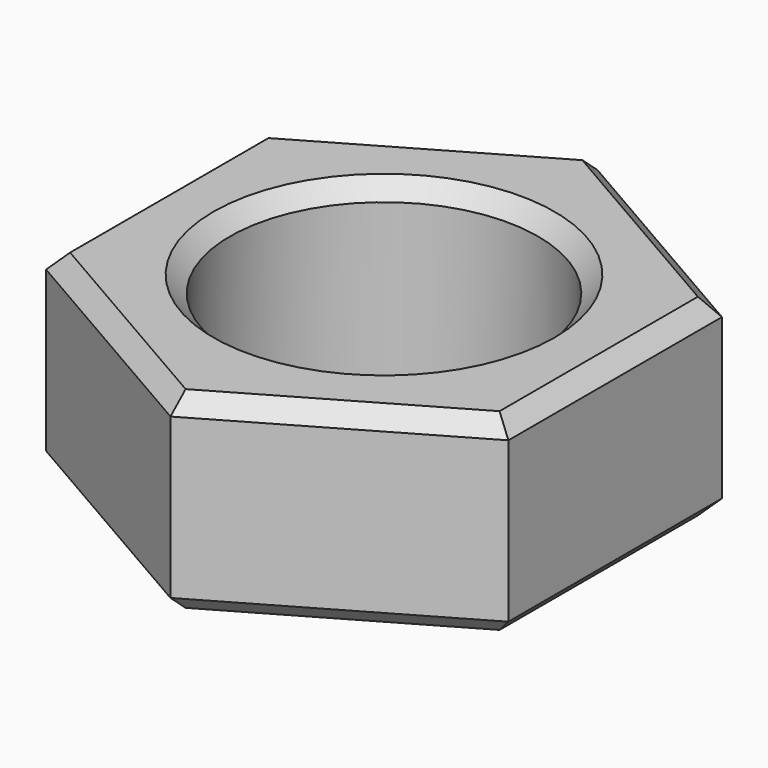
from build123d import *

# Parameters (mm, degrees)
F0_R     = 4.7625
F1_DEPTH = 5.95122
F2_SIZE  = 0.508


with BuildPart() as f1:
    # F0 (on Top) → F1 (new body)
    with BuildSketch(Plane.XY):
        Polygon((7.002312, -3.907013), (7.002312, 4.341879), (-0.141438, 8.466325), (-7.285188, 4.341879), (-7.285188, -3.907013), (-0.141438, -8.031459), align=None)
        with Locations((-0.141438, 0.217433)):
            Circle(F0_R, mode=Mode.SUBTRACT)
    extrude(amount=F1_DEPTH)

    # F2
    f2_edges = [f1.edges().sort_by_distance(p)[0] for p in [
        (-3.713313, 6.404102, 5.95122),
        (3.430437, 6.404102, 5.95122),
        (7.002312, 0.217433, 5.95122),
        (3.430437, -5.969236, 5.95122),
        (-3.713313, -5.969236, 5.95122),
        (-7.285188, 0.217433, 5.95122),
        (3.430437, -5.969236, 0),
        (7.002312, 0.217433, 0),
        (3.430437, 6.404102, 0),
        (-3.713313, 6.404102, 0),
        (-7.285188, 0.217433, 0),
        (-3.713313, -5.969236, 0),
        (-4.903938, 0.217433, 5.95122),
        (-4.903938, 0.217433, 0),
    ]]
    chamfer(f2_edges, length=F2_SIZE)


solid = f1.part
